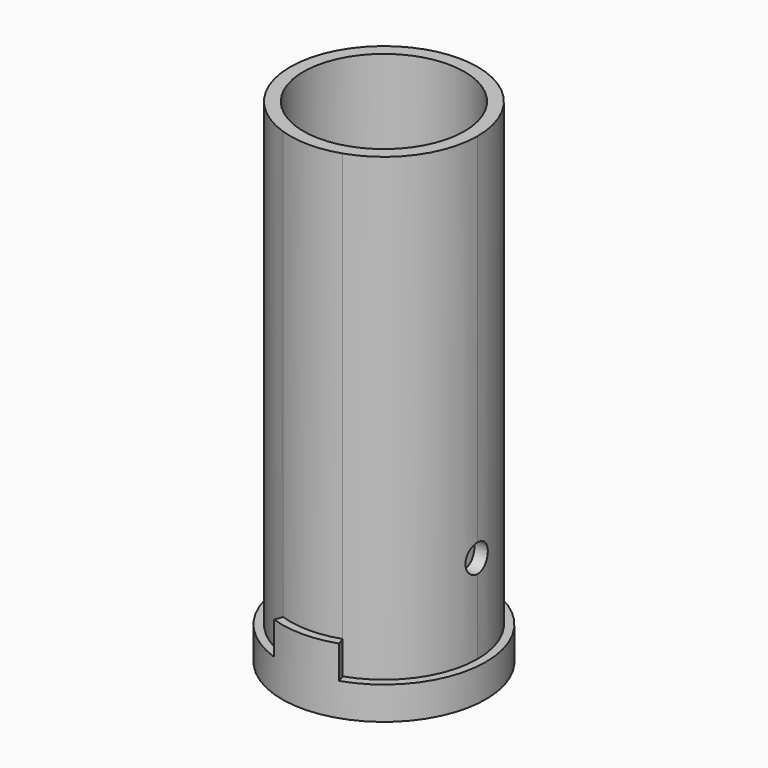
from build123d import *

# Parameters (mm, degrees)
F1_DEPTH = 10
F0_R     = 24.5
F2_DEPTH = 150
F4_D     = 8.5
F4_DEPTH = 31.001
F5_D     = 8.5
F6_DEPTH = 20
F7_DEPTH = 20


with BuildPart() as f1:
    # F0 (on Top) → F1 (new body)
    with BuildSketch(Plane.XY):
        with BuildLine():
            ThreePointArc((-9.06851449, 27.018735073), (0, 28.5), (9.06851449, 27.018735073))
            Line((9.06851449, 27.018735073), (9.8690700263, 29.3870967742))
            ThreePointArc((9.8690700263, 29.3870967742), (0, 31), (-9.8690700263, 29.3870967742))
            Line((-9.8690700263, 29.3870967742), (-9.06851449, 27.018735073))
        make_face()
        with BuildLine():
            ThreePointArc((-9.06851449, -27.018735073), (-28.5, 0), (-9.06851449, 27.018735073))
            Line((-9.06851449, 27.018735073), (-9.8690700263, 29.3870967742))
            ThreePointArc((-9.8690700263, 29.3870967742), (-31, 0), (-9.8690700263, -29.3870967742))
            Line((-9.8690700263, -29.3870967742), (-9.06851449, -27.018735073))
        make_face()
        with BuildLine():
            Line((9.8690700263, -29.3870967742), (9.06851449, -27.018735073))
            ThreePointArc((9.06851449, -27.018735073), (0, -28.5), (-9.06851449, -27.018735073))
            Line((-9.06851449, -27.018735073), (-9.8690700263, -29.3870967742))
            ThreePointArc((-9.8690700263, -29.3870967742), (0, -31), (9.8690700263, -29.3870967742))
        make_face()
        with BuildLine():
            ThreePointArc((9.06851449, 27.018735073), (23.1376604583, 16.6402724893), (28.5, 0))
            ThreePointArc((28.5, 0), (23.1376604583, -16.6402724893), (9.06851449, -27.018735073))
            Line((9.06851449, -27.018735073), (9.8690700263, -29.3870967742))
            ThreePointArc((9.8690700263, -29.3870967742), (25.1688415587, -18.0977737469), (31, 0))
            ThreePointArc((31, 0), (25.1688415587, 18.0977737469), (9.8690700263, 29.3870967742))
            Line((9.8690700263, 29.3870967742), (9.06851449, 27.018735073))
        make_face()
    extrude(amount=F1_DEPTH)

    # F0 (on Top) → F2 (join)
    with BuildSketch(Plane.XY):
        with BuildLine():
            ThreePointArc((9.06851449, -27.018735073), (23.1376604583, -16.6402724893), (28.5, 0))
            ThreePointArc((28.5, 0), (23.1376604583, 16.6402724893), (9.06851449, 27.018735073))
            ThreePointArc((9.06851449, 27.018735073), (0, 28.5), (-9.06851449, 27.018735073))
            ThreePointArc((-9.06851449, 27.018735073), (-28.5, 0), (-9.06851449, -27.018735073))
            ThreePointArc((-9.06851449, -27.018735073), (0, -28.5), (9.06851449, -27.018735073))
        make_face()
        Circle(F0_R, mode=Mode.SUBTRACT)
    extrude(amount=F2_DEPTH)

    # F4 (through all, one way)
    with BuildSketch(Plane.YZ):
        with Locations((0, 37.0021536946)):
            Circle(F4_D / 2)
    extrude(amount=-F4_DEPTH, mode=Mode.SUBTRACT)

    # F5 (through all)
    with Locations(Plane(origin=(0, 0, 0), x_dir=(0, 1, 0), z_dir=(-1, 0, 0))):
        with Locations((0, -37.0021536946)):
            Hole(F5_D / 2)

    # F0 (on Top) → F6 (join)
    with BuildSketch(Plane.XY):
        with BuildLine():
            ThreePointArc((-9.06851449, 27.018735073), (0, 28.5), (9.06851449, 27.018735073))
            Line((9.06851449, 27.018735073), (9.8690700263, 29.3870967742))
            ThreePointArc((9.8690700263, 29.3870967742), (0, 31), (-9.8690700263, 29.3870967742))
            Line((-9.8690700263, 29.3870967742), (-9.06851449, 27.018735073))
        make_face()
    extrude(amount=F6_DEPTH)

    # F0 (on Top) → F7 (join)
    with BuildSketch(Plane.XY):
        with BuildLine():
            Line((9.8690700263, -29.3870967742), (9.06851449, -27.018735073))
            ThreePointArc((9.06851449, -27.018735073), (0, -28.5), (-9.06851449, -27.018735073))
            Line((-9.06851449, -27.018735073), (-9.8690700263, -29.3870967742))
            ThreePointArc((-9.8690700263, -29.3870967742), (0, -31), (9.8690700263, -29.3870967742))
        make_face()
    extrude(amount=F7_DEPTH)


solid = f1.part
